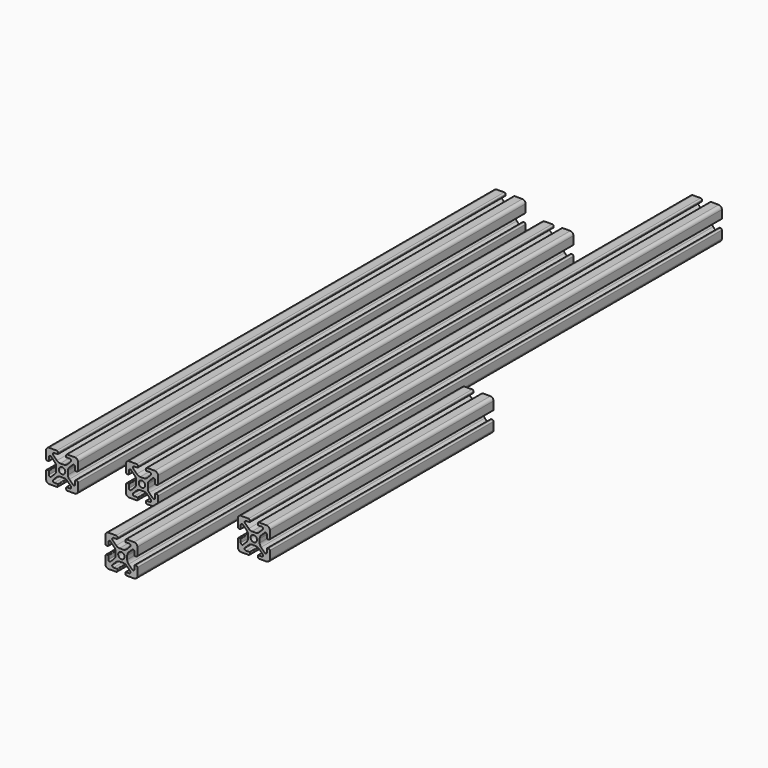
from build123d import *

# Parameters (mm, degrees)
F0_R     = 2
F1_DEPTH = 175
F2_DEPTH = 162.5
F3_DEPTH = 228.6
F4_DEPTH = 175


with BuildPart() as f1:
    # F0 (on Front) → F1 (new body, symmetric)
    with BuildSketch(Plane.XZ):
        with BuildLine():
            Line((3.6449, -1.130627), (3.6449, 0))
            Line((3.6449, 0), (3.6449, 1.130627))
            ThreePointArc((3.6449, 1.130627), (3.873048, 2.277606), (4.52276, 3.249967))
            Line((4.52276, 3.249967), (6.77292, 5.500128))
            ThreePointArc((6.77292, 5.500128), (7.683945, 5.681342), (8.2, 4.909012))
            Line((8.2, 4.909012), (8.2, 2.8048))
            ThreePointArc((8.2, 2.8048), (8.289274, 2.589274), (8.5048, 2.5))
            Line((8.5048, 2.5), (9.2126, 2.5))
            ThreePointArc((9.2126, 2.5), (9.769376, 2.730624), (10, 3.2874))
            Line((10, 3.2874), (10, 7.9883))
            ThreePointArc((10, 7.9883), (9.410787, 9.410787), (7.9883, 10))
            Line((7.9883, 10), (3.2874, 10))
            ThreePointArc((3.2874, 10), (2.730624, 9.769376), (2.5, 9.2126))
            Line((2.5, 9.2126), (2.5, 8.5048))
            ThreePointArc((2.5, 8.5048), (2.589274, 8.289274), (2.8048, 8.2))
            Line((2.8048, 8.2), (4.909012, 8.2))
            ThreePointArc((4.909012, 8.2), (5.681342, 7.683945), (5.500128, 6.77292))
            Line((5.500128, 6.77292), (3.249967, 4.52276))
            ThreePointArc((3.249967, 4.52276), (2.277606, 3.873048), (1.130627, 3.6449))
            Line((1.130627, 3.6449), (0, 3.6449))
            Line((0, 3.6449), (-1.130627, 3.6449))
            ThreePointArc((-1.130627, 3.6449), (-2.277606, 3.873048), (-3.249967, 4.52276))
            Line((-3.249967, 4.52276), (-5.500128, 6.77292))
            ThreePointArc((-5.500128, 6.77292), (-5.681342, 7.683945), (-4.909012, 8.2))
            Line((-4.909012, 8.2), (-2.8048, 8.2))
            ThreePointArc((-2.8048, 8.2), (-2.589274, 8.289274), (-2.5, 8.5048))
            Line((-2.5, 8.5048), (-2.5, 9.2126))
            ThreePointArc((-2.5, 9.2126), (-2.730624, 9.769376), (-3.2874, 10))
            Line((-3.2874, 10), (-7.9883, 10))
            ThreePointArc((-7.9883, 10), (-9.410787, 9.410787), (-10, 7.9883))
            Line((-10, 7.9883), (-10, 3.2874))
            ThreePointArc((-10, 3.2874), (-9.769376, 2.730624), (-9.2126, 2.5))
            Line((-9.2126, 2.5), (-8.5048, 2.5))
            ThreePointArc((-8.5048, 2.5), (-8.289274, 2.589274), (-8.2, 2.8048))
            Line((-8.2, 2.8048), (-8.2, 4.909012))
            ThreePointArc((-8.2, 4.909012), (-7.683945, 5.681342), (-6.77292, 5.500128))
            Line((-6.77292, 5.500128), (-4.52276, 3.249967))
            ThreePointArc((-4.52276, 3.249967), (-3.873048, 2.277606), (-3.6449, 1.130627))
            Line((-3.6449, 1.130627), (-3.6449, 0))
            Line((-3.6449, 0), (-3.6449, -1.130627))
            ThreePointArc((-3.6449, -1.130627), (-3.873048, -2.277606), (-4.52276, -3.249967))
            Line((-4.52276, -3.249967), (-6.77292, -5.500128))
            ThreePointArc((-6.77292, -5.500128), (-7.683945, -5.681342), (-8.2, -4.909012))
            Line((-8.2, -4.909012), (-8.2, -2.8048))
            ThreePointArc((-8.2, -2.8048), (-8.289274, -2.589274), (-8.5048, -2.5))
            Line((-8.5048, -2.5), (-9.2126, -2.5))
            ThreePointArc((-9.2126, -2.5), (-9.769376, -2.730624), (-10, -3.2874))
            Line((-10, -3.2874), (-10, -7.9883))
            ThreePointArc((-10, -7.9883), (-9.410787, -9.410787), (-7.9883, -10))
            Line((-7.9883, -10), (-3.2874, -10))
            ThreePointArc((-3.2874, -10), (-2.730624, -9.769376), (-2.5, -9.2126))
            Line((-2.5, -9.2126), (-2.5, -8.5048))
            ThreePointArc((-2.5, -8.5048), (-2.589274, -8.289274), (-2.8048, -8.2))
            Line((-2.8048, -8.2), (-4.909012, -8.2))
            ThreePointArc((-4.909012, -8.2), (-5.681342, -7.683945), (-5.500128, -6.77292))
            Line((-5.500128, -6.77292), (-3.249967, -4.52276))
            ThreePointArc((-3.249967, -4.52276), (-2.277606, -3.873048), (-1.130627, -3.6449))
            Line((-1.130627, -3.6449), (0, -3.6449))
            Line((0, -3.6449), (1.130627, -3.6449))
            ThreePointArc((1.130627, -3.6449), (2.277606, -3.873048), (3.249967, -4.52276))
            Line((3.249967, -4.52276), (5.500128, -6.77292))
            ThreePointArc((5.500128, -6.77292), (5.681342, -7.683945), (4.909012, -8.2))
            Line((4.909012, -8.2), (2.8048, -8.2))
            ThreePointArc((2.8048, -8.2), (2.589274, -8.289274), (2.5, -8.5048))
            Line((2.5, -8.5048), (2.5, -9.2126))
            ThreePointArc((2.5, -9.2126), (2.730624, -9.769376), (3.2874, -10))
            Line((3.2874, -10), (7.9883, -10))
            ThreePointArc((7.9883, -10), (9.410787, -9.410787), (10, -7.9883))
            Line((10, -7.9883), (10, -3.2874))
            ThreePointArc((10, -3.2874), (9.769376, -2.730624), (9.2126, -2.5))
            Line((9.2126, -2.5), (8.5048, -2.5))
            ThreePointArc((8.5048, -2.5), (8.289274, -2.589274), (8.2, -2.8048))
            Line((8.2, -2.8048), (8.2, -4.909012))
            ThreePointArc((8.2, -4.909012), (7.683945, -5.681342), (6.77292, -5.500128))
            Line((6.77292, -5.500128), (4.52276, -3.249967))
            ThreePointArc((4.52276, -3.249967), (3.873048, -2.277606), (3.6449, -1.130627))
        make_face()
        Circle(F0_R, mode=Mode.SUBTRACT)
    extrude(amount=F1_DEPTH, both=True)


with BuildPart() as f2:
    # F0 (on Front) → F2 (new body, symmetric)
    with BuildSketch(Plane.XZ):
        with BuildLine():
            ThreePointArc((45.496704, -6.249607), (45.677918, -7.160632), (44.905588, -7.676687))
            Line((44.905588, -7.676687), (42.801377, -7.676687))
            ThreePointArc((42.801377, -7.676687), (42.585851, -7.765961), (42.496577, -7.981487))
            Line((42.496577, -7.981487), (42.496577, -8.689287))
            ThreePointArc((42.496577, -8.689287), (42.727201, -9.246063), (43.283977, -9.476687))
            Line((43.283977, -9.476687), (47.984877, -9.476687))
            ThreePointArc((47.984877, -9.476687), (49.407363, -8.887474), (49.996577, -7.464987))
            Line((49.996577, -7.464987), (49.996577, -2.764087))
            ThreePointArc((49.996577, -2.764087), (49.765953, -2.207311), (49.209177, -1.976687))
            Line((49.209177, -1.976687), (48.501377, -1.976687))
            ThreePointArc((48.501377, -1.976687), (48.285851, -2.065961), (48.196577, -2.281487))
            Line((48.196577, -2.281487), (48.196577, -4.385699))
            ThreePointArc((48.196577, -4.385699), (47.680522, -5.158029), (46.769496, -4.976815))
            Line((46.769496, -4.976815), (44.519336, -2.726654))
            ThreePointArc((44.519336, -2.726654), (43.869625, -1.754293), (43.641477, -0.607314))
            Line((43.641477, -0.607314), (43.641477, 0.523313))
            Line((43.641477, 0.523313), (43.641477, 1.65394))
            ThreePointArc((43.641477, 1.65394), (43.869625, 2.800919), (44.519336, 3.77328))
            Line((44.519336, 3.77328), (46.769496, 6.02344))
            ThreePointArc((46.769496, 6.02344), (47.680522, 6.204655), (48.196577, 5.432324))
            Line((48.196577, 5.432324), (48.196577, 3.328113))
            ThreePointArc((48.196577, 3.328113), (48.285851, 3.112587), (48.501377, 3.023313))
            Line((48.501377, 3.023313), (49.209177, 3.023313))
            ThreePointArc((49.209177, 3.023313), (49.765953, 3.253937), (49.996577, 3.810713))
            Line((49.996577, 3.810713), (49.996577, 8.511613))
            ThreePointArc((49.996577, 8.511613), (49.407363, 9.9341), (47.984877, 10.523313))
            Line((47.984877, 10.523313), (43.283977, 10.523313))
            ThreePointArc((43.283977, 10.523313), (42.727201, 10.292689), (42.496577, 9.735913))
            Line((42.496577, 9.735913), (42.496577, 9.028113))
            ThreePointArc((42.496577, 9.028113), (42.585851, 8.812587), (42.801377, 8.723313))
            Line((42.801377, 8.723313), (44.905588, 8.723313))
            ThreePointArc((44.905588, 8.723313), (45.677918, 8.207258), (45.496704, 7.296233))
            Line((45.496704, 7.296233), (43.246544, 5.046072))
            ThreePointArc((43.246544, 5.046072), (42.274182, 4.396361), (41.127204, 4.168213))
            Line((41.127204, 4.168213), (39.996577, 4.168213))
            Line((39.996577, 4.168213), (38.86595, 4.168213))
            ThreePointArc((38.86595, 4.168213), (37.718971, 4.396361), (36.746609, 5.046072))
            Line((36.746609, 5.046072), (34.496449, 7.296233))
            ThreePointArc((34.496449, 7.296233), (34.315235, 8.207258), (35.087565, 8.723313))
            Line((35.087565, 8.723313), (37.191777, 8.723313))
            ThreePointArc((37.191777, 8.723313), (37.407303, 8.812587), (37.496577, 9.028113))
            Line((37.496577, 9.028113), (37.496577, 9.735913))
            ThreePointArc((37.496577, 9.735913), (37.265953, 10.292689), (36.709177, 10.523313))
            Line((36.709177, 10.523313), (32.008277, 10.523313))
            ThreePointArc((32.008277, 10.523313), (30.58579, 9.9341), (29.996577, 8.511613))
            Line((29.996577, 8.511613), (29.996577, 3.810713))
            ThreePointArc((29.996577, 3.810713), (30.227201, 3.253937), (30.783977, 3.023313))
            Line((30.783977, 3.023313), (31.491777, 3.023313))
            ThreePointArc((31.491777, 3.023313), (31.707303, 3.112587), (31.796577, 3.328113))
            Line((31.796577, 3.328113), (31.796577, 5.432324))
            ThreePointArc((31.796577, 5.432324), (32.312631, 6.204655), (33.223657, 6.02344))
            Line((33.223657, 6.02344), (35.473817, 3.77328))
            ThreePointArc((35.473817, 3.77328), (36.123528, 2.800919), (36.351677, 1.65394))
            Line((36.351677, 1.65394), (36.351677, 0.523313))
            Line((36.351677, 0.523313), (36.351677, -0.607314))
            ThreePointArc((36.351677, -0.607314), (36.123528, -1.754293), (35.473817, -2.726654))
            Line((35.473817, -2.726654), (33.223657, -4.976815))
            ThreePointArc((33.223657, -4.976815), (32.312631, -5.158029), (31.796577, -4.385699))
            Line((31.796577, -4.385699), (31.796577, -2.281487))
            ThreePointArc((31.796577, -2.281487), (31.707303, -2.065961), (31.491777, -1.976687))
            Line((31.491777, -1.976687), (30.783977, -1.976687))
            ThreePointArc((30.783977, -1.976687), (30.227201, -2.207311), (29.996577, -2.764087))
            Line((29.996577, -2.764087), (29.996577, -7.464987))
            ThreePointArc((29.996577, -7.464987), (30.58579, -8.887474), (32.008277, -9.476687))
            Line((32.008277, -9.476687), (36.709177, -9.476687))
            ThreePointArc((36.709177, -9.476687), (37.265953, -9.246063), (37.496577, -8.689287))
            Line((37.496577, -8.689287), (37.496577, -7.981487))
            ThreePointArc((37.496577, -7.981487), (37.407303, -7.765961), (37.191777, -7.676687))
            Line((37.191777, -7.676687), (35.087565, -7.676687))
            ThreePointArc((35.087565, -7.676687), (34.315235, -7.160632), (34.496449, -6.249607))
            Line((34.496449, -6.249607), (36.746609, -3.999447))
            ThreePointArc((36.746609, -3.999447), (37.718971, -3.349735), (38.86595, -3.121587))
            Line((38.86595, -3.121587), (39.996577, -3.121587))
            Line((39.996577, -3.121587), (41.127204, -3.121587))
            ThreePointArc((41.127204, -3.121587), (42.274182, -3.349735), (43.246544, -3.999447))
            Line((43.246544, -3.999447), (45.496704, -6.249607))
        make_face()
        with Locations((39.996577, 0.523313)):
            Circle(F0_R, mode=Mode.SUBTRACT)
    extrude(amount=F2_DEPTH, both=True)


with BuildPart() as f3:
    # F0 (on Front) → F3 (new body, symmetric)
    with BuildSketch(Plane.XZ):
        with BuildLine():
            ThreePointArc((85.493281, -5.726294), (85.674495, -6.63732), (84.902165, -7.153374))
            Line((84.902165, -7.153374), (82.797953, -7.153374))
            ThreePointArc((82.797953, -7.153374), (82.582427, -7.242648), (82.493153, -7.458174))
            Line((82.493153, -7.458174), (82.493153, -8.165974))
            ThreePointArc((82.493153, -8.165974), (82.723777, -8.72275), (83.280553, -8.953374))
            Line((83.280553, -8.953374), (87.981453, -8.953374))
            ThreePointArc((87.981453, -8.953374), (89.40394, -8.364161), (89.993153, -6.941674))
            Line((89.993153, -6.941674), (89.993153, -2.240774))
            ThreePointArc((89.993153, -2.240774), (89.762529, -1.683998), (89.205753, -1.453374))
            Line((89.205753, -1.453374), (88.497953, -1.453374))
            ThreePointArc((88.497953, -1.453374), (88.282427, -1.542648), (88.193153, -1.758174))
            Line((88.193153, -1.758174), (88.193153, -3.862386))
            ThreePointArc((88.193153, -3.862386), (87.677099, -4.634716), (86.766073, -4.453502))
            Line((86.766073, -4.453502), (84.515913, -2.203341))
            ThreePointArc((84.515913, -2.203341), (83.866202, -1.23098), (83.638053, -0.084001))
            Line((83.638053, -0.084001), (83.638053, 1.046626))
            Line((83.638053, 1.046626), (83.638053, 2.177253))
            ThreePointArc((83.638053, 2.177253), (83.866202, 3.324232), (84.515913, 4.296593))
            Line((84.515913, 4.296593), (86.766073, 6.546753))
            ThreePointArc((86.766073, 6.546753), (87.677099, 6.727968), (88.193153, 5.955637))
            Line((88.193153, 5.955637), (88.193153, 3.851426))
            ThreePointArc((88.193153, 3.851426), (88.282427, 3.6359), (88.497953, 3.546626))
            Line((88.497953, 3.546626), (89.205753, 3.546626))
            ThreePointArc((89.205753, 3.546626), (89.762529, 3.77725), (89.993153, 4.334026))
            Line((89.993153, 4.334026), (89.993153, 9.034926))
            ThreePointArc((89.993153, 9.034926), (89.40394, 10.457413), (87.981453, 11.046626))
            Line((87.981453, 11.046626), (83.280553, 11.046626))
            ThreePointArc((83.280553, 11.046626), (82.723777, 10.816002), (82.493153, 10.259226))
            Line((82.493153, 10.259226), (82.493153, 9.551426))
            ThreePointArc((82.493153, 9.551426), (82.582427, 9.3359), (82.797953, 9.246626))
            Line((82.797953, 9.246626), (84.902165, 9.246626))
            ThreePointArc((84.902165, 9.246626), (85.674495, 8.730571), (85.493281, 7.819546))
            Line((85.493281, 7.819546), (83.243121, 5.569385))
            ThreePointArc((83.243121, 5.569385), (82.270759, 4.919674), (81.12378, 4.691526))
            Line((81.12378, 4.691526), (79.993153, 4.691526))
            Line((79.993153, 4.691526), (78.862526, 4.691526))
            ThreePointArc((78.862526, 4.691526), (77.715548, 4.919674), (76.743186, 5.569385))
            Line((76.743186, 5.569385), (74.493026, 7.819546))
            ThreePointArc((74.493026, 7.819546), (74.311811, 8.730571), (75.084142, 9.246626))
            Line((75.084142, 9.246626), (77.188353, 9.246626))
            ThreePointArc((77.188353, 9.246626), (77.403879, 9.3359), (77.493153, 9.551426))
            Line((77.493153, 9.551426), (77.493153, 10.259226))
            ThreePointArc((77.493153, 10.259226), (77.262529, 10.816002), (76.705753, 11.046626))
            Line((76.705753, 11.046626), (72.004853, 11.046626))
            ThreePointArc((72.004853, 11.046626), (70.582367, 10.457413), (69.993153, 9.034926))
            Line((69.993153, 9.034926), (69.993153, 4.334026))
            ThreePointArc((69.993153, 4.334026), (70.223777, 3.77725), (70.780553, 3.546626))
            Line((70.780553, 3.546626), (71.488353, 3.546626))
            ThreePointArc((71.488353, 3.546626), (71.703879, 3.6359), (71.793153, 3.851426))
            Line((71.793153, 3.851426), (71.793153, 5.955637))
            ThreePointArc((71.793153, 5.955637), (72.309208, 6.727968), (73.220234, 6.546753))
            Line((73.220234, 6.546753), (75.470394, 4.296593))
            ThreePointArc((75.470394, 4.296593), (76.120105, 3.324232), (76.348253, 2.177253))
            Line((76.348253, 2.177253), (76.348253, 1.046626))
            Line((76.348253, 1.046626), (76.348253, -0.084001))
            ThreePointArc((76.348253, -0.084001), (76.120105, -1.23098), (75.470394, -2.203341))
            Line((75.470394, -2.203341), (73.220234, -4.453502))
            ThreePointArc((73.220234, -4.453502), (72.309208, -4.634716), (71.793153, -3.862386))
            Line((71.793153, -3.862386), (71.793153, -1.758174))
            ThreePointArc((71.793153, -1.758174), (71.703879, -1.542648), (71.488353, -1.453374))
            Line((71.488353, -1.453374), (70.780553, -1.453374))
            ThreePointArc((70.780553, -1.453374), (70.223777, -1.683998), (69.993153, -2.240774))
            Line((69.993153, -2.240774), (69.993153, -6.941674))
            ThreePointArc((69.993153, -6.941674), (70.582367, -8.364161), (72.004853, -8.953374))
            Line((72.004853, -8.953374), (76.705753, -8.953374))
            ThreePointArc((76.705753, -8.953374), (77.262529, -8.72275), (77.493153, -8.165974))
            Line((77.493153, -8.165974), (77.493153, -7.458174))
            ThreePointArc((77.493153, -7.458174), (77.403879, -7.242648), (77.188353, -7.153374))
            Line((77.188353, -7.153374), (75.084142, -7.153374))
            ThreePointArc((75.084142, -7.153374), (74.311811, -6.63732), (74.493026, -5.726294))
            Line((74.493026, -5.726294), (76.743186, -3.476134))
            ThreePointArc((76.743186, -3.476134), (77.715548, -2.826422), (78.862526, -2.598274))
            Line((78.862526, -2.598274), (79.993153, -2.598274))
            Line((79.993153, -2.598274), (81.12378, -2.598274))
            ThreePointArc((81.12378, -2.598274), (82.270759, -2.826422), (83.243121, -3.476134))
            Line((83.243121, -3.476134), (85.493281, -5.726294))
        make_face()
        with Locations((79.993153, 1.046626)):
            Circle(F0_R, mode=Mode.SUBTRACT)
    extrude(amount=F3_DEPTH, both=True)


with BuildPart() as f4:
    # F0 (on Front) → F4 (new body)
    with BuildSketch(Plane.XZ):
        with BuildLine():
            ThreePointArc((125.489858, -5.202981), (125.671072, -6.114007), (124.898742, -6.630061))
            Line((124.898742, -6.630061), (122.79453, -6.630061))
            ThreePointArc((122.79453, -6.630061), (122.579004, -6.719335), (122.48973, -6.934861))
            Line((122.48973, -6.934861), (122.48973, -7.642661))
            ThreePointArc((122.48973, -7.642661), (122.720354, -8.199437), (123.27713, -8.430061))
            Line((123.27713, -8.430061), (127.97803, -8.430061))
            ThreePointArc((127.97803, -8.430061), (129.400517, -7.840848), (129.98973, -6.418361))
            Line((129.98973, -6.418361), (129.98973, -1.717461))
            ThreePointArc((129.98973, -1.717461), (129.759106, -1.160685), (129.20233, -0.930061))
            Line((129.20233, -0.930061), (128.49453, -0.930061))
            ThreePointArc((128.49453, -0.930061), (128.279004, -1.019335), (128.18973, -1.234861))
            Line((128.18973, -1.234861), (128.18973, -3.339073))
            ThreePointArc((128.18973, -3.339073), (127.673675, -4.111403), (126.76265, -3.930189))
            Line((126.76265, -3.930189), (124.51249, -1.680029))
            ThreePointArc((124.51249, -1.680029), (123.862778, -0.707667), (123.63463, 0.439312))
            Line((123.63463, 0.439312), (123.63463, 1.569939))
            Line((123.63463, 1.569939), (123.63463, 2.700566))
            ThreePointArc((123.63463, 2.700566), (123.862778, 3.847544), (124.51249, 4.819906))
            Line((124.51249, 4.819906), (126.76265, 7.070066))
            ThreePointArc((126.76265, 7.070066), (127.673675, 7.251281), (128.18973, 6.47895))
            Line((128.18973, 6.47895), (128.18973, 4.374739))
            ThreePointArc((128.18973, 4.374739), (128.279004, 4.159213), (128.49453, 4.069939))
            Line((128.49453, 4.069939), (129.20233, 4.069939))
            ThreePointArc((129.20233, 4.069939), (129.759106, 4.300563), (129.98973, 4.857339))
            Line((129.98973, 4.857339), (129.98973, 9.558239))
            ThreePointArc((129.98973, 9.558239), (129.400517, 10.980725), (127.97803, 11.569939))
            Line((127.97803, 11.569939), (123.27713, 11.569939))
            ThreePointArc((123.27713, 11.569939), (122.720354, 11.339315), (122.48973, 10.782539))
            Line((122.48973, 10.782539), (122.48973, 10.074739))
            ThreePointArc((122.48973, 10.074739), (122.579004, 9.859213), (122.79453, 9.769939))
            Line((122.79453, 9.769939), (124.898742, 9.769939))
            ThreePointArc((124.898742, 9.769939), (125.671072, 9.253884), (125.489858, 8.342859))
            Line((125.489858, 8.342859), (123.239697, 6.092698))
            ThreePointArc((123.239697, 6.092698), (122.267336, 5.442987), (121.120357, 5.214839))
            Line((121.120357, 5.214839), (119.98973, 5.214839))
            Line((119.98973, 5.214839), (118.859103, 5.214839))
            ThreePointArc((118.859103, 5.214839), (117.712124, 5.442987), (116.739763, 6.092698))
            Line((116.739763, 6.092698), (114.489602, 8.342859))
            ThreePointArc((114.489602, 8.342859), (114.308388, 9.253884), (115.080718, 9.769939))
            Line((115.080718, 9.769939), (117.18493, 9.769939))
            ThreePointArc((117.18493, 9.769939), (117.400456, 9.859213), (117.48973, 10.074739))
            Line((117.48973, 10.074739), (117.48973, 10.782539))
            ThreePointArc((117.48973, 10.782539), (117.259106, 11.339315), (116.70233, 11.569939))
            Line((116.70233, 11.569939), (112.00143, 11.569939))
            ThreePointArc((112.00143, 11.569939), (110.578943, 10.980725), (109.98973, 9.558239))
            Line((109.98973, 9.558239), (109.98973, 4.857339))
            ThreePointArc((109.98973, 4.857339), (110.220354, 4.300563), (110.77713, 4.069939))
            Line((110.77713, 4.069939), (111.48493, 4.069939))
            ThreePointArc((111.48493, 4.069939), (111.700456, 4.159213), (111.78973, 4.374739))
            Line((111.78973, 4.374739), (111.78973, 6.47895))
            ThreePointArc((111.78973, 6.47895), (112.305785, 7.251281), (113.21681, 7.070066))
            Line((113.21681, 7.070066), (115.46697, 4.819906))
            ThreePointArc((115.46697, 4.819906), (116.116682, 3.847544), (116.34483, 2.700566))
            Line((116.34483, 2.700566), (116.34483, 1.569939))
            Line((116.34483, 1.569939), (116.34483, 0.439312))
            ThreePointArc((116.34483, 0.439312), (116.116682, -0.707667), (115.46697, -1.680029))
            Line((115.46697, -1.680029), (113.21681, -3.930189))
            ThreePointArc((113.21681, -3.930189), (112.305785, -4.111403), (111.78973, -3.339073))
            Line((111.78973, -3.339073), (111.78973, -1.234861))
            ThreePointArc((111.78973, -1.234861), (111.700456, -1.019335), (111.48493, -0.930061))
            Line((111.48493, -0.930061), (110.77713, -0.930061))
            ThreePointArc((110.77713, -0.930061), (110.220354, -1.160685), (109.98973, -1.717461))
            Line((109.98973, -1.717461), (109.98973, -6.418361))
            ThreePointArc((109.98973, -6.418361), (110.578943, -7.840848), (112.00143, -8.430061))
            Line((112.00143, -8.430061), (116.70233, -8.430061))
            ThreePointArc((116.70233, -8.430061), (117.259106, -8.199437), (117.48973, -7.642661))
            Line((117.48973, -7.642661), (117.48973, -6.934861))
            ThreePointArc((117.48973, -6.934861), (117.400456, -6.719335), (117.18493, -6.630061))
            Line((117.18493, -6.630061), (115.080718, -6.630061))
            ThreePointArc((115.080718, -6.630061), (114.308388, -6.114007), (114.489602, -5.202981))
            Line((114.489602, -5.202981), (116.739763, -2.952821))
            ThreePointArc((116.739763, -2.952821), (117.712124, -2.303109), (118.859103, -2.074961))
            Line((118.859103, -2.074961), (119.98973, -2.074961))
            Line((119.98973, -2.074961), (121.120357, -2.074961))
            ThreePointArc((121.120357, -2.074961), (122.267336, -2.303109), (123.239697, -2.952821))
            Line((123.239697, -2.952821), (125.489858, -5.202981))
        make_face()
        with Locations((119.98973, 1.569939)):
            Circle(F0_R, mode=Mode.SUBTRACT)
    extrude(amount=F4_DEPTH)


solid = Compound([f1.part, f2.part, f3.part, f4.part])
